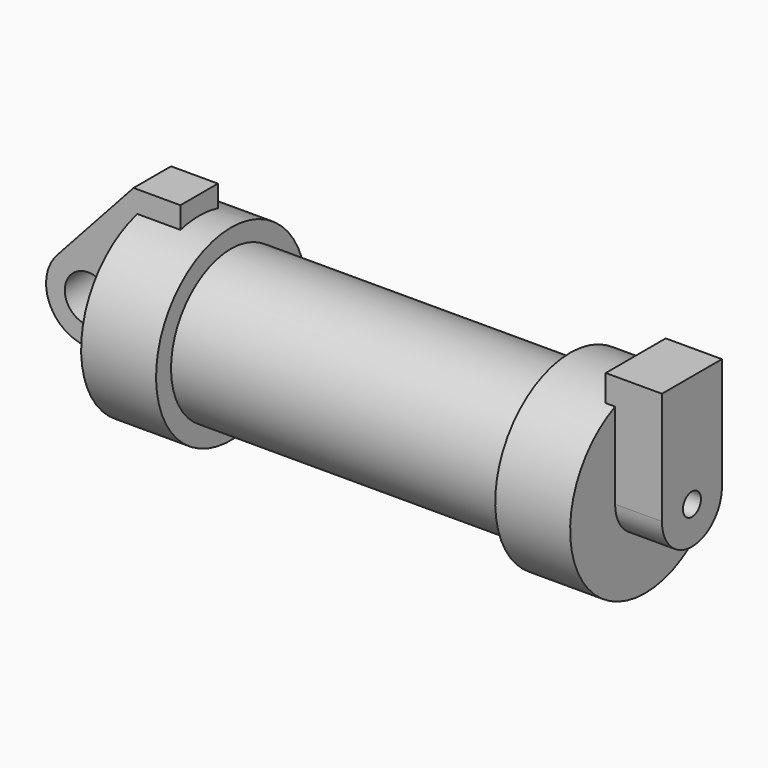
from build123d import *

# Parameters (mm, degrees)
F0_W     = 5.842
F0_H     = 12.7
F0_R     = 3.175
F1_DEPTH = 3.175
F4_DEPTH = 1.27
F3_R     = 1.524
F5_DEPTH = 56.134
F6_DEPTH = 6.35


with BuildPart() as f1:
    # F0 (on Front) → F1 (new body, symmetric)
    with BuildSketch(Plane.XZ):
        with BuildLine():
            Line((-0.9398, 0), (0, 0))
            Line((0, 0), (0, 12.7))
            Line((0, 12.7), (5.842, 12.7))
            Line((5.842, 12.7), (5.842, 15.24))
            Line((5.842, 15.24), (-0.508, 15.24))
            Line((-0.508, 15.24), (-10.8806298187, 3.8475430269))
            ThreePointArc((-10.8806298187, 3.8475430269), (-4.5919612295, 5.3297205562), (-0.9398, 0))
        make_face()
        with Locations((2.921, 6.35)):
            Rectangle(F0_W, F0_H)
        with BuildLine():
            ThreePointArc((-8.1826630726, -5.5069827884), (-3.1957909266, -4.5493385486), (-0.9398, 0))
            ThreePointArc((-0.9398, 0), (-4.5919612295, 5.3297205562), (-10.8806298187, 3.8475430269))
            ThreePointArc((-10.8806298187, 3.8475430269), (-12.1459778134, -1.5837270034), (-8.1826630726, -5.5069827884))
        make_face()
        with Locations((-6.6548, 0)):
            Circle(F0_R, mode=Mode.SUBTRACT)
        with BuildLine():
            Line((5.842, 0), (0, 0))
            Line((0, 0), (-0.9398, 0))
            ThreePointArc((-0.9398, 0), (-3.1957909266, -4.5493385486), (-8.1826630726, -5.5069827884))
            Line((-8.1826630726, -5.5069827884), (5.842, -9.398))
            Line((5.842, -9.398), (5.842, 0))
        make_face()
    extrude(amount=F1_DEPTH, both=True)

    # F0 (on Front) → F2 (revolve)
    with BuildSketch(Plane.XZ):
        Polygon((5.842, 12.7), (5.842, 0), (66.294, 0), (66.294, 12.7), (56.134, 12.7), (56.134, 10.16), (10.16, 10.16), (10.16, 12.7), align=None)
        with Locations((2.921, 6.35)):
            Rectangle(F0_W, F0_H)
    revolve(axis=Axis((33.147, 0, 0), (-1, 0, 0)))

    # F3 (on face) → F4 (join)
    with BuildSketch(Plane.YZ.offset(66.294)):
        with BuildLine():
            ThreePointArc((-5.08, 11.6397422652), (0, 12.7), (5.08, 11.6397422652))
            Line((5.08, 11.6397422652), (5.08, 15.24))
            Line((5.08, 15.24), (-5.08, 15.24))
            Line((-5.08, 15.24), (-5.08, 11.6397422652))
        make_face()
    extrude(amount=-F4_DEPTH)

    # F3 (on face) → F5 (cut, through all)
    with BuildSketch(Plane.YZ.offset(66.294)):
        Circle(F3_R)
    extrude(amount=-F5_DEPTH, mode=Mode.SUBTRACT)

    # F3 (on face) → F6 (join)
    with BuildSketch(Plane.YZ.offset(66.294)):
        with BuildLine():
            ThreePointArc((-5.08, 0), (0, -5.08), (5.08, 0))
            ThreePointArc((5.08, 0), (0, 5.08), (-5.08, 0))
        make_face()
        Circle(F3_R, mode=Mode.SUBTRACT)
        with BuildLine():
            ThreePointArc((-5.08, 0), (0, 5.08), (5.08, 0))
            Line((5.08, 0), (5.08, 11.6397422652))
            ThreePointArc((5.08, 11.6397422652), (0, 12.7), (-5.08, 11.6397422652))
            Line((-5.08, 11.6397422652), (-5.08, 0))
        make_face()
        with BuildLine():
            ThreePointArc((-5.08, 11.6397422652), (0, 12.7), (5.08, 11.6397422652))
            Line((5.08, 11.6397422652), (5.08, 15.24))
            Line((5.08, 15.24), (-5.08, 15.24))
            Line((-5.08, 15.24), (-5.08, 11.6397422652))
        make_face()
    extrude(amount=F6_DEPTH)


solid = f1.part
